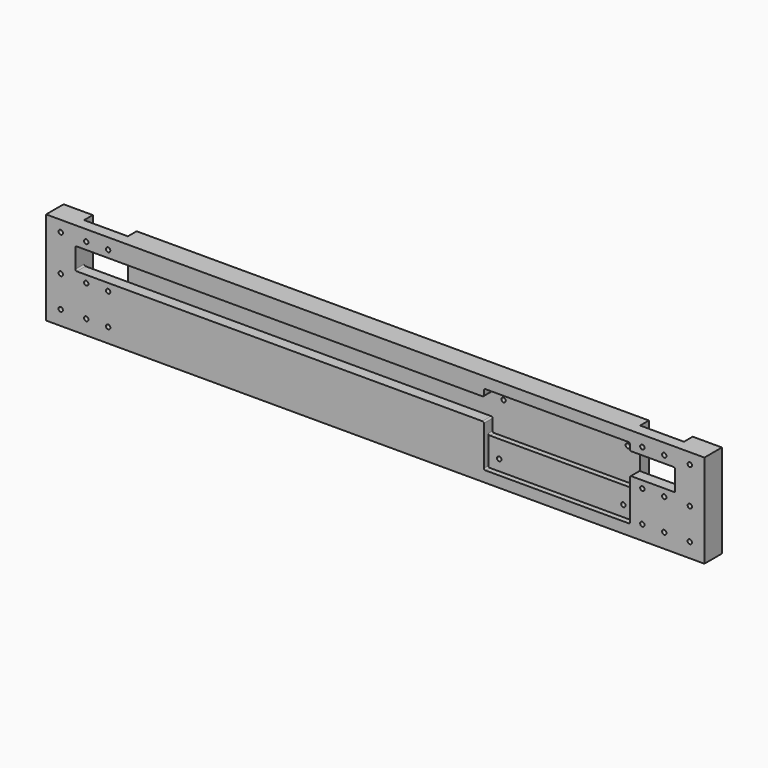
from build123d import *

# Parameters (mm, degrees)
SKETCH_W        = 450.8
SKETCH_H        = 64
PAD_DEPTH       = 15
SKETCH001_W     = 30
SKETCH001_H     = 64
POCKET_DEPTH    = 7.5
POCKET001_DEPTH = 3.75
POCKET002_DEPTH = 15.001
SKETCH005_R     = 1.5
POCKET004_DEPTH = 15.001
SKETCH006_W     = 410.8
SKETCH006_H     = 4
POCKET005_DEPTH = 7.5
SKETCH007_R     = 1.5
POCKET006_DEPTH = 15.001
POCKET007_DEPTH = 7.5
SKETCH010_R     = 3
POCKET009_DEPTH = 3


with BuildPart() as part:
    # Sketch → Pad (new body)
    with BuildSketch(Plane.XZ):
        with Locations((205.4, 32)):
            Rectangle(SKETCH_W, SKETCH_H)
    extrude(amount=PAD_DEPTH)

    # Sketch001 (on DatumPlane) → Pocket (cut)
    with BuildSketch(Plane.XZ):
        with Locations((15, 32)):
            Rectangle(SKETCH001_W, SKETCH001_H)
        with Locations((395.8, 32)):
            Rectangle(SKETCH001_W, SKETCH001_H)
    extrude(amount=POCKET_DEPTH, mode=Mode.SUBTRACT)

    # Sketch002 (on DatumPlane) → Pocket001 (cut)
    with BuildSketch(Plane.XZ.offset(15)):
        with BuildLine():
            Line((279.8, 55.5), (279.8, 8.5))
            ThreePointArc((279.8, 8.5), (280.092893, 7.792893), (280.8, 7.5))
            Line((280.8, 7.5), (378.8, 7.5))
            ThreePointArc((378.8, 7.5), (379.507107, 7.792893), (379.8, 8.5))
            Line((379.8, 8.5), (379.8, 35.500007))
            ThreePointArc((380.8, 36.500007), (380.092893, 36.207114), (379.8, 35.500007))
            Line((380.8, 36.500007), (409.8, 36.500007))
            ThreePointArc((409.8, 36.500007), (410.507102, 36.792895), (410.8, 37.499993))
            Line((410.8, 37.499993), (410.8, 44))
            Line((410.8, 44), (410.8, 50.500007))
            ThreePointArc((410.8, 50.500007), (410.507107, 51.207114), (409.8, 51.500007))
            Line((409.8, 51.500007), (380.8, 51.500007))
            ThreePointArc((379.8, 52.500007), (380.092893, 51.7929), (380.8, 51.500007))
            Line((379.8, 55.5), (379.8, 52.500007))
            ThreePointArc((379.8, 55.5), (379.507107, 56.207107), (378.8, 56.5))
            Line((378.8, 56.5), (280.8, 56.5))
            ThreePointArc((280.8, 56.5), (280.092893, 56.207107), (279.8, 55.5))
        make_face()
    extrude(amount=-POCKET001_DEPTH, mode=Mode.SUBTRACT)

    # Sketch003 (on DatumPlane) → Pocket002 (cut, through all)
    with BuildSketch(Plane.XZ.offset(15)):
        with BuildLine():
            Line((381.8, 51.5), (409.8, 51.5))
            ThreePointArc((410.8, 50.5), (410.507107, 51.207107), (409.8, 51.5))
            Line((410.8, 50.5), (410.8, 37.5))
            ThreePointArc((409.8, 36.5), (410.507107, 36.792893), (410.8, 37.5))
            Line((409.8, 36.5), (381.8, 36.5))
            ThreePointArc((380.8, 37.5), (381.092893, 36.792893), (381.8, 36.5))
            Line((380.8, 37.5), (380.8, 44))
            Line((380.8, 44), (380.8, 50.5))
            ThreePointArc((381.8, 51.5), (381.092893, 51.207107), (380.8, 50.5))
        make_face()
    extrude(amount=-POCKET002_DEPTH, mode=Mode.SUBTRACT)

    # Sketch005 (on DatumPlane) → Pocket004 (cut, through all)
    with BuildSketch(Plane.XZ.offset(15)):
        with Locations((287.3, 49)):
            Circle(SKETCH005_R)
        with Locations((287.3, 15)):
            Circle(SKETCH005_R)
        with Locations((372.3, 49)):
            Circle(SKETCH005_R)
        with Locations((372.3, 15)):
            Circle(SKETCH005_R)
    extrude(amount=-POCKET004_DEPTH, mode=Mode.SUBTRACT)

    # Sketch006 (on DatumPlane) → Pocket005 (cut)
    with BuildSketch(Plane.XZ):
        with Locations((205.4, 22)):
            Rectangle(SKETCH006_W, SKETCH006_H)
    extrude(amount=POCKET005_DEPTH, mode=Mode.SUBTRACT)

    # Sketch007 (on DatumPlane) → Pocket006 (cut, through all)
    with BuildSketch(Plane.XZ):
        with Locations((7.5, 56.5)):
            Circle(SKETCH007_R)
        with Locations((7.5, 31.5)):
            Circle(SKETCH007_R)
        with Locations((7.5, 10)):
            Circle(SKETCH007_R)
        with Locations((22.5, 56.5)):
            Circle(SKETCH007_R)
        with Locations((22.5, 31.5)):
            Circle(SKETCH007_R)
        with Locations((22.5, 10)):
            Circle(SKETCH007_R)
        with Locations((388.3, 56.5)):
            Circle(SKETCH007_R)
        with Locations((388.3, 31.5)):
            Circle(SKETCH007_R)
        with Locations((388.3, 10)):
            Circle(SKETCH007_R)
        with Locations((403.3, 56.5)):
            Circle(SKETCH007_R)
        with Locations((403.3, 31.5)):
            Circle(SKETCH007_R)
        with Locations((403.3, 10)):
            Circle(SKETCH007_R)
        with Locations((-10, 56.5)):
            Circle(SKETCH007_R)
        with Locations((-10, 31.5)):
            Circle(SKETCH007_R)
        with Locations((-10, 10)):
            Circle(SKETCH007_R)
        with Locations((420.8, 56.5)):
            Circle(SKETCH007_R)
        with Locations((420.8, 31.5)):
            Circle(SKETCH007_R)
        with Locations((420.8, 10)):
            Circle(SKETCH007_R)
    extrude(amount=POCKET006_DEPTH, mode=Mode.SUBTRACT)

    # Sketch008 (on DatumPlane) → Pocket007 (cut)
    with BuildSketch(Plane.XZ.offset(15)):
        with BuildLine():
            Line((378.8, 56.5), (280.8, 56.5))
            ThreePointArc((280.8, 56.5), (280.092893, 56.207107), (279.8, 55.5))
            Line((279.8, 55.5), (279.8, 52.5))
            ThreePointArc((278.8, 51.5), (279.507107, 51.792893), (279.8, 52.5))
            Line((278.8, 51.5), (1, 51.5))
            ThreePointArc((1, 51.5), (0.292893, 51.207107), (0, 50.5))
            Line((0, 50.5), (0, 37.5))
            ThreePointArc((0, 37.5), (0.292893, 36.792893), (1, 36.5))
            Line((1, 36.5), (278.8, 36.5))
            ThreePointArc((279.8, 35.5), (279.507107, 36.207107), (278.8, 36.5))
            Line((279.8, 35.5), (279.8, 28))
            ThreePointArc((279.8, 28), (280.092893, 27.292893), (280.8, 27))
            Line((280.8, 27), (378.8, 27))
            ThreePointArc((378.8, 27), (379.507107, 27.292893), (379.8, 28))
            Line((379.8, 35.5), (379.8, 28))
            ThreePointArc((380.8, 36.5), (380.092893, 36.207107), (379.8, 35.5))
            Line((380.8, 36.5), (409.8, 36.5))
            ThreePointArc((409.8, 36.5), (410.507107, 36.792893), (410.8, 37.5))
            Line((410.8, 37.5), (410.8, 44))
            Line((410.8, 44), (410.8, 50.5))
            ThreePointArc((410.8, 50.5), (410.507107, 51.207107), (409.8, 51.5))
            Line((409.8, 51.5), (380.8, 51.5))
            ThreePointArc((379.8, 52.5), (380.092893, 51.792893), (380.8, 51.5))
            Line((379.8, 55.5), (379.8, 52.5))
            ThreePointArc((379.8, 55.5), (379.507107, 56.207107), (378.8, 56.5))
        make_face()
    extrude(amount=-POCKET007_DEPTH, mode=Mode.SUBTRACT)

    # Sketch010 (on DatumPlane) → Pocket009 (cut)
    with BuildSketch(Plane.XZ):
        with Locations((287.3, 49)):
            Circle(SKETCH010_R)
        with Locations((372.3, 49)):
            Circle(SKETCH010_R)
        with Locations((287.3, 15)):
            Circle(SKETCH010_R)
        with Locations((372.3, 15)):
            Circle(SKETCH010_R)
    extrude(amount=POCKET009_DEPTH, mode=Mode.SUBTRACT)


solid = part.part
